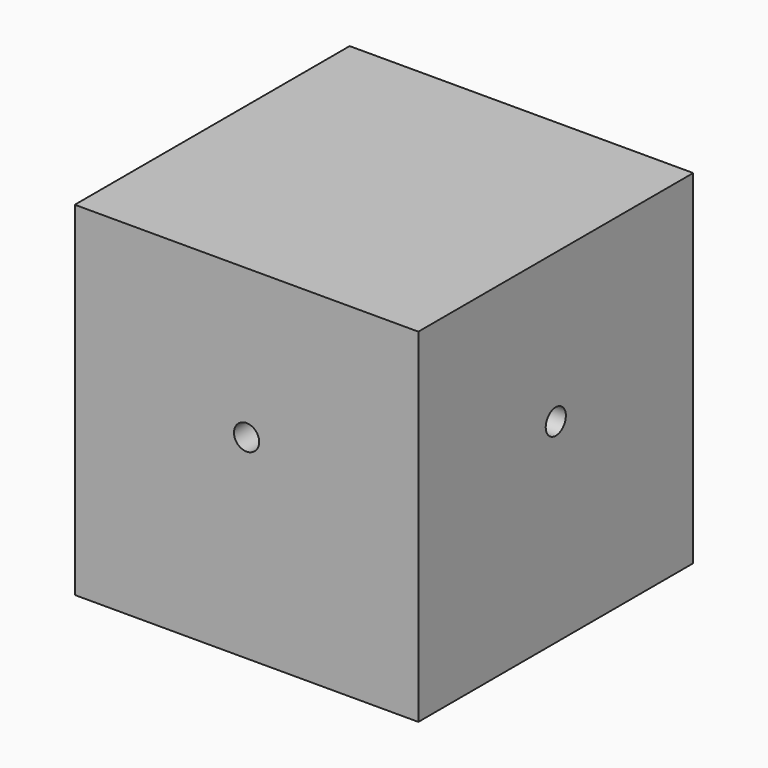
from build123d import *

# Parameters (mm, degrees)
F0_W     = 38.1
F0_H     = 38.1
F1_DEPTH = 38.1
F2_R     = 14.605
F3_DEPTH = 25.4
F5_D     = 2.794
F7_D     = 2.794


with BuildPart() as f1:
    # F0 (on Top) → F1 (new body)
    with BuildSketch(Plane.XY):
        Rectangle(F0_W, F0_H)
    extrude(amount=F1_DEPTH)

    # F2 (on face) → F3 (cut)
    with BuildSketch(Plane(origin=(0, 0, 0), x_dir=(1, 0, 0), z_dir=(0, 0, -1))):
        Circle(F2_R)
    extrude(amount=-F3_DEPTH, mode=Mode.SUBTRACT)

    # F5 (through all)
    with Locations(Plane(origin=(0, 19.05, 0), x_dir=(-1, 0, 0), z_dir=(0, 1, 0))):
        with Locations((0, 21.59)):
            Hole(F5_D / 2)

    # F7 (through all)
    with Locations(Plane.YZ.offset(19.05)):
        with Locations((0, 21.59)):
            Hole(F7_D / 2)


solid = f1.part
